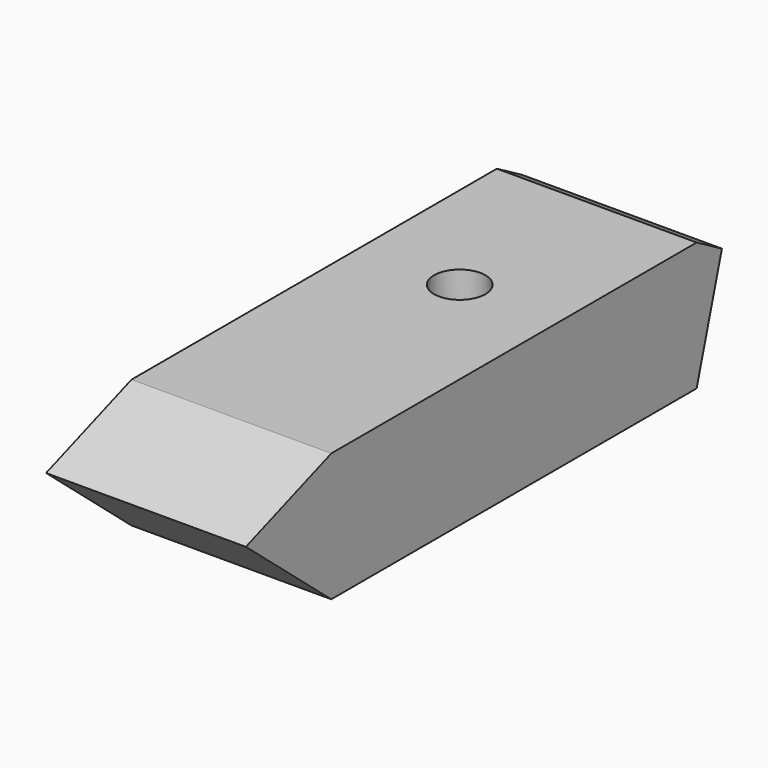
from build123d import *

# Parameters (mm, degrees)
F0_W     = 101.6
F0_H     = 28.575
F1_DEPTH = 22.225
F3_DEPTH = 6.35


with BuildPart() as f1:
    # F0 (on Right) → F1 (new body, symmetric)
    with BuildSketch(Plane.YZ):
        Rectangle(F0_W, F0_H)
        Polygon((-50.8, -14.2875), (-50.8, 14.2875), (-74.551738, 5.642574), align=None)
        Polygon((57.829927, 10.22877), (50.8, 14.2875), (50.8, -14.2875), align=None)
    extrude(amount=F1_DEPTH, both=True)

    # F2 (on face) → F3 (cut)
    with BuildSketch(Plane.XY.offset(14.2875)):
        with BuildLine():
            ThreePointArc((0, 6.985), (4.041115, 8.658885), (5.715, 12.7))
            ThreePointArc((5.715, 12.7), (-4.041115, 16.741115), (0, 6.985))
        make_face()
    extrude(amount=-F3_DEPTH, mode=Mode.SUBTRACT)


solid = f1.part
